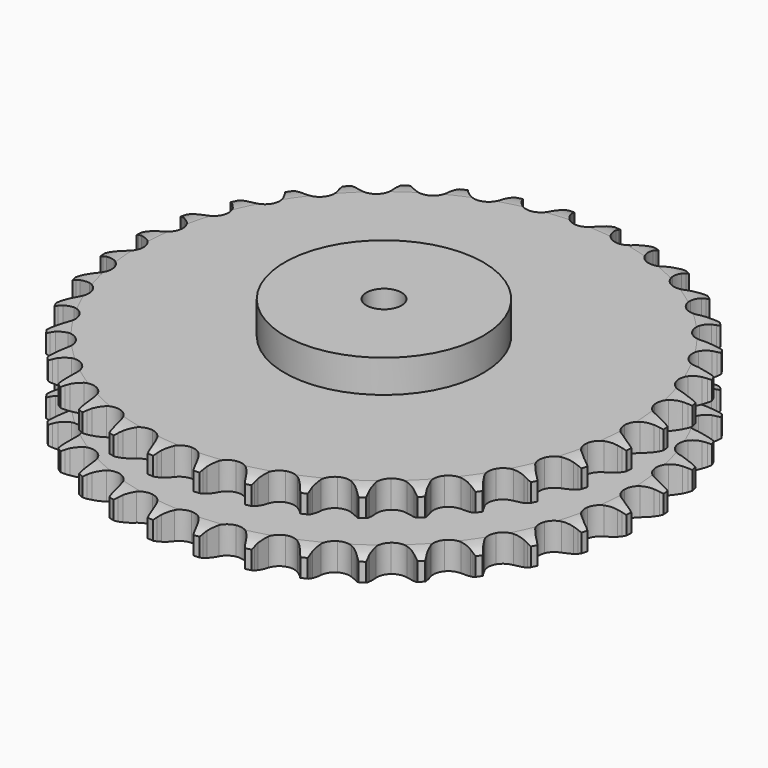
from build123d import *

# Parameters (mm, degrees)
PAD_DEPTH         = 72
SKETCH001_R       = 85
PAD001_DEPTH      = 100
SKETCH002_R       = 15
POCKET_DEPTH      = 0.001
POCKET_DEPTH_BACK = 100.001


with BuildPart() as part:
    # Sprocket → Pad (new body)
    with BuildSketch(Plane.XY):
        with BuildLine():
            ThreePointArc((-20.062815, 229.319028), (-17.721854, 226.163969), (-16.019821, 222.623125))
            Line((-16.019821, 222.623125), (-14.780809, 219.259616))
            ThreePointArc((-14.780809, 219.259616), (-12.823996, 214.932469), (-10.26846, 210.929652))
            ThreePointArc((-10.26846, 210.929652), (-5.745348, 207.13431), (0, 205.772637))
            ThreePointArc((0, 205.772637), (5.745348, 207.13431), (10.26846, 210.929652))
            ThreePointArc((10.26846, 210.929652), (12.823996, 214.932469), (14.780809, 219.259616))
            Line((14.780809, 219.259616), (16.019821, 222.623125))
            ThreePointArc((16.019821, 222.623125), (17.721854, 226.163969), (20.062815, 229.319028))
            ThreePointArc((20.062815, 229.319028), (21.820342, 225.805398), (22.881656, 222.022792))
            Line((22.881656, 222.022792), (23.517777, 218.49523))
            ThreePointArc((23.517777, 218.49523), (24.693461, 213.894026), (26.51509, 209.508256))
            ThreePointArc((26.51509, 209.508256), (30.310433, 204.985143), (35.732043, 202.646489))
            ThreePointArc((35.732043, 202.646489), (41.626558, 202.989805), (46.740009, 205.942057))
            Line((46.740009, 205.942057), (52.630288, 213.361909))
            ThreePointArc((52.630288, 213.361909), (53.490487, 214.934963), (54.434544, 216.459167))
            ThreePointArc((54.434544, 216.459167), (56.72558, 219.650663), (59.578847, 222.351285))
            ThreePointArc((59.578847, 222.351285), (60.699538, 218.585844), (61.087886, 214.676409))
            Line((61.087886, 214.676409), (61.101788, 211.091977))
            ThreePointArc((61.101788, 211.091977), (61.460619, 206.356521), (62.492993, 201.721058))
            ThreePointArc((62.492993, 201.721058), (65.445246, 196.607607), (70.378387, 193.363029))
            ThreePointArc((70.378387, 193.363029), (76.242967, 192.677558), (81.791386, 194.697017))
            Line((81.791386, 194.697017), (88.880622, 200.981309))
            ThreePointArc((88.880622, 200.981309), (90.00091, 202.381092), (91.1953, 203.718206))
            ThreePointArc((91.1953, 203.718206), (94.005728, 206.463382), (97.284606, 208.627511))
            ThreePointArc((97.284606, 208.627511), (97.734409, 204.72467), (97.437991, 200.807192))
            Line((97.437991, 200.807192), (96.829252, 197.274802))
            ThreePointArc((96.829252, 197.274802), (96.360328, 192.548977), (96.572079, 187.804667))
            ThreePointArc((96.572079, 187.804667), (98.591538, 182.256248), (102.886319, 178.204331))
            ThreePointArc((102.886319, 178.204331), (108.542772, 176.5109), (114.357573, 177.536207))
            Line((114.357573, 177.536207), (122.430364, 182.493993))
            ThreePointArc((122.430364, 182.493993), (123.776702, 183.677975), (125.185134, 184.787371))
            ThreePointArc((125.185134, 184.787371), (128.42956, 187.002816), (132.034422, 188.564696))
            ThreePointArc((132.034422, 188.564696), (131.799669, 184.64304), (130.827492, 180.83655))
            Line((130.827492, 180.83655), (129.614608, 177.463531))
            ThreePointArc((129.614608, 177.463531), (128.332177, 172.89093), (127.71687, 168.181927))
            ThreePointArc((127.71687, 168.181927), (128.742176, 162.367125), (132.268102, 157.630985))
            ThreePointArc((132.268102, 157.630985), (137.544559, 154.981049), (143.449064, 154.981049))
            Line((143.449064, 154.981049), (152.260121, 158.461689))
            ThreePointArc((152.260121, 158.461689), (153.791602, 159.393895), (155.371281, 160.241865))
            ThreePointArc((155.371281, 160.241865), (158.951125, 161.860264), (162.772438, 162.772438))
            ThreePointArc((162.772438, 162.772438), (161.860264, 158.951125), (160.241865, 155.371281))
            Line((160.241865, 155.371281), (158.461689, 152.260121))
            ThreePointArc((158.461689, 152.260121), (156.404718, 147.979679), (154.981049, 143.449064))
            ThreePointArc((154.981049, 143.449064), (154.981049, 137.544559), (157.630985, 132.268102))
            ThreePointArc((157.630985, 132.268102), (162.367125, 128.742176), (168.181927, 127.71687))
            Line((168.181927, 127.71687), (177.463531, 129.614608))
            ThreePointArc((177.463531, 129.614608), (179.133621, 130.266712), (180.83655, 130.827492))
            ThreePointArc((180.83655, 130.827492), (184.64304, 131.799669), (188.564696, 132.034422))
            ThreePointArc((188.564696, 132.034422), (187.002816, 128.42956), (184.787371, 125.185134))
            Line((184.787371, 125.185134), (182.493993, 122.430364))
            ThreePointArc((182.493993, 122.430364), (179.724981, 118.572141), (177.536207, 114.357573))
            ThreePointArc((177.536207, 114.357573), (176.5109, 108.542772), (178.204331, 102.886319))
            ThreePointArc((178.204331, 102.886319), (182.256248, 98.591538), (187.804667, 96.572079))
            Line((187.804667, 96.572079), (197.274802, 96.829252))
            ThreePointArc((197.274802, 96.829252), (199.032756, 97.181441), (200.807192, 97.437991))
            ThreePointArc((200.807192, 97.437991), (204.72467, 97.734409), (208.627511, 97.284606))
            ThreePointArc((208.627511, 97.284606), (206.463382, 94.005728), (203.718206, 91.1953))
            Line((203.718206, 91.1953), (200.981309, 88.880622))
            ThreePointArc((200.981309, 88.880622), (197.584391, 85.561849), (194.697017, 81.791386))
            ThreePointArc((194.697017, 81.791386), (192.677558, 76.242967), (193.363029, 70.378387))
            ThreePointArc((193.363029, 70.378387), (196.607607, 65.445246), (201.721058, 62.492993))
            Line((201.721058, 62.492993), (211.091977, 61.101788))
            ThreePointArc((211.091977, 61.101788), (212.884381, 61.143361), (214.676409, 61.087886))
            ThreePointArc((214.676409, 61.087886), (218.585844, 60.699538), (222.351285, 59.578847))
            ThreePointArc((222.351285, 59.578847), (219.650663, 56.72558), (216.459167, 54.434544))
            Line((216.459167, 54.434544), (213.361909, 52.630288))
            ThreePointArc((213.361909, 52.630288), (209.440299, 49.951802), (205.942057, 46.740009))
            ThreePointArc((205.942057, 46.740009), (202.989805, 41.626558), (202.646489, 35.732043))
            ThreePointArc((202.646489, 35.732043), (204.985143, 30.310433), (209.508256, 26.51509))
            Line((209.508256, 26.51509), (218.49523, 23.517777))
            ThreePointArc((218.49523, 23.517777), (220.267623, 23.247471), (222.022792, 22.881656))
            ThreePointArc((222.022792, 22.881656), (225.805398, 21.820342), (229.319028, 20.062815))
            ThreePointArc((229.319028, 20.062815), (226.163969, 17.721854), (222.623125, 16.019821))
            Line((222.623125, 16.019821), (219.259616, 14.780809))
            ThreePointArc((219.259616, 14.780809), (214.932469, 12.823996), (210.929652, 10.26846))
            ThreePointArc((210.929652, 10.26846), (207.13431, 5.745348), (205.772637, 0))
            ThreePointArc((205.772637, 0), (207.13431, -5.745348), (210.929652, -10.26846))
            Line((210.929652, -10.26846), (219.259616, -14.780809))
            ThreePointArc((219.259616, -14.780809), (220.958143, -15.354781), (222.623125, -16.019821))
            ThreePointArc((222.623125, -16.019821), (226.163969, -17.721854), (229.319028, -20.062815))
            ThreePointArc((229.319028, -20.062815), (225.805398, -21.820342), (222.022792, -22.881656))
            Line((222.022792, -22.881656), (218.49523, -23.517777))
            ThreePointArc((218.49523, -23.517777), (213.894026, -24.693461), (209.508256, -26.51509))
            ThreePointArc((209.508256, -26.51509), (204.985143, -30.310433), (202.646489, -35.732043))
            ThreePointArc((202.646489, -35.732043), (202.989805, -41.626558), (205.942057, -46.740009))
            Line((205.942057, -46.740009), (213.361909, -52.630288))
            ThreePointArc((213.361909, -52.630288), (214.934963, -53.490487), (216.459167, -54.434544))
            ThreePointArc((216.459167, -54.434544), (219.650663, -56.72558), (222.351285, -59.578847))
            ThreePointArc((222.351285, -59.578847), (218.585844, -60.699538), (214.676409, -61.087886))
            Line((214.676409, -61.087886), (211.091977, -61.101788))
            ThreePointArc((211.091977, -61.101788), (206.356521, -61.460619), (201.721058, -62.492993))
            ThreePointArc((201.721058, -62.492993), (196.607607, -65.445246), (193.363029, -70.378387))
            ThreePointArc((193.363029, -70.378387), (192.677558, -76.242967), (194.697017, -81.791386))
            Line((194.697017, -81.791386), (200.981309, -88.880622))
            ThreePointArc((200.981309, -88.880622), (202.381092, -90.00091), (203.718206, -91.1953))
            ThreePointArc((203.718206, -91.1953), (206.463382, -94.005728), (208.627511, -97.284606))
            ThreePointArc((208.627511, -97.284606), (204.72467, -97.734409), (200.807192, -97.437991))
            Line((200.807192, -97.437991), (197.274802, -96.829252))
            ThreePointArc((197.274802, -96.829252), (192.548977, -96.360328), (187.804667, -96.572079))
            ThreePointArc((187.804667, -96.572079), (182.256248, -98.591538), (178.204331, -102.886319))
            ThreePointArc((178.204331, -102.886319), (176.5109, -108.542772), (177.536207, -114.357573))
            Line((177.536207, -114.357573), (182.493993, -122.430364))
            ThreePointArc((182.493993, -122.430364), (183.677975, -123.776702), (184.787371, -125.185134))
            ThreePointArc((184.787371, -125.185134), (187.002816, -128.42956), (188.564696, -132.034422))
            ThreePointArc((188.564696, -132.034422), (184.64304, -131.799669), (180.83655, -130.827492))
            Line((180.83655, -130.827492), (177.463531, -129.614608))
            ThreePointArc((177.463531, -129.614608), (172.89093, -128.332177), (168.181927, -127.71687))
            ThreePointArc((168.181927, -127.71687), (162.367125, -128.742176), (157.630985, -132.268102))
            ThreePointArc((157.630985, -132.268102), (154.981049, -137.544559), (154.981049, -143.449064))
            Line((154.981049, -143.449064), (158.461689, -152.260121))
            ThreePointArc((158.461689, -152.260121), (159.393895, -153.791602), (160.241865, -155.371281))
            ThreePointArc((160.241865, -155.371281), (161.860264, -158.951125), (162.772438, -162.772438))
            ThreePointArc((162.772438, -162.772438), (158.951125, -161.860264), (155.371281, -160.241865))
            Line((155.371281, -160.241865), (152.260121, -158.461689))
            ThreePointArc((152.260121, -158.461689), (147.979679, -156.404718), (143.449064, -154.981049))
            ThreePointArc((143.449064, -154.981049), (137.544559, -154.981049), (132.268102, -157.630985))
            ThreePointArc((132.268102, -157.630985), (128.742176, -162.367125), (127.71687, -168.181927))
            Line((127.71687, -168.181927), (129.614608, -177.463531))
            ThreePointArc((129.614608, -177.463531), (130.266712, -179.133621), (130.827492, -180.83655))
            ThreePointArc((130.827492, -180.83655), (131.799669, -184.64304), (132.034422, -188.564696))
            ThreePointArc((132.034422, -188.564696), (128.42956, -187.002816), (125.185134, -184.787371))
            Line((125.185134, -184.787371), (122.430364, -182.493993))
            ThreePointArc((122.430364, -182.493993), (118.572141, -179.724981), (114.357573, -177.536207))
            ThreePointArc((114.357573, -177.536207), (108.542772, -176.5109), (102.886319, -178.204331))
            ThreePointArc((102.886319, -178.204331), (98.591538, -182.256248), (96.572079, -187.804667))
            Line((96.572079, -187.804667), (96.829252, -197.274802))
            ThreePointArc((96.829252, -197.274802), (97.181441, -199.032756), (97.437991, -200.807192))
            ThreePointArc((97.437991, -200.807192), (97.734409, -204.72467), (97.284606, -208.627511))
            ThreePointArc((97.284606, -208.627511), (94.005728, -206.463382), (91.1953, -203.718206))
            Line((91.1953, -203.718206), (88.880622, -200.981309))
            ThreePointArc((88.880622, -200.981309), (85.561849, -197.584391), (81.791386, -194.697017))
            ThreePointArc((81.791386, -194.697017), (76.242967, -192.677558), (70.378387, -193.363029))
            ThreePointArc((70.378387, -193.363029), (65.445246, -196.607607), (62.492993, -201.721058))
            Line((62.492993, -201.721058), (61.101788, -211.091977))
            ThreePointArc((61.101788, -211.091977), (61.143361, -212.884381), (61.087886, -214.676409))
            ThreePointArc((61.087886, -214.676409), (60.699538, -218.585844), (59.578847, -222.351285))
            ThreePointArc((59.578847, -222.351285), (56.72558, -219.650663), (54.434544, -216.459167))
            Line((54.434544, -216.459167), (52.630288, -213.361909))
            ThreePointArc((52.630288, -213.361909), (49.951802, -209.440299), (46.740009, -205.942057))
            ThreePointArc((46.740009, -205.942057), (41.626558, -202.989805), (35.732043, -202.646489))
            ThreePointArc((35.732043, -202.646489), (30.310433, -204.985143), (26.51509, -209.508256))
            Line((26.51509, -209.508256), (23.517777, -218.49523))
            ThreePointArc((23.517777, -218.49523), (23.247471, -220.267623), (22.881656, -222.022792))
            ThreePointArc((22.881656, -222.022792), (21.820342, -225.805398), (20.062815, -229.319028))
            ThreePointArc((20.062815, -229.319028), (17.721854, -226.163969), (16.019821, -222.623125))
            Line((16.019821, -222.623125), (14.780809, -219.259616))
            ThreePointArc((14.780809, -219.259616), (12.823996, -214.932469), (10.26846, -210.929652))
            ThreePointArc((10.26846, -210.929652), (5.745348, -207.13431), (0, -205.772637))
            ThreePointArc((0, -205.772637), (-5.745348, -207.13431), (-10.26846, -210.929652))
            Line((-10.26846, -210.929652), (-14.780809, -219.259616))
            ThreePointArc((-14.780809, -219.259616), (-15.354781, -220.958143), (-16.019821, -222.623125))
            ThreePointArc((-16.019821, -222.623125), (-17.721854, -226.163969), (-20.062815, -229.319028))
            ThreePointArc((-20.062815, -229.319028), (-21.820342, -225.805398), (-22.881656, -222.022792))
            Line((-22.881656, -222.022792), (-23.517777, -218.49523))
            ThreePointArc((-23.517777, -218.49523), (-24.693461, -213.894026), (-26.51509, -209.508256))
            ThreePointArc((-26.51509, -209.508256), (-30.310433, -204.985143), (-35.732043, -202.646489))
            ThreePointArc((-35.732043, -202.646489), (-41.626558, -202.989805), (-46.740009, -205.942057))
            Line((-46.740009, -205.942057), (-52.630288, -213.361909))
            ThreePointArc((-52.630288, -213.361909), (-53.490487, -214.934963), (-54.434544, -216.459167))
            ThreePointArc((-54.434544, -216.459167), (-56.72558, -219.650663), (-59.578847, -222.351285))
            ThreePointArc((-59.578847, -222.351285), (-60.699538, -218.585844), (-61.087886, -214.676409))
            Line((-61.087886, -214.676409), (-61.101788, -211.091977))
            ThreePointArc((-61.101788, -211.091977), (-61.460619, -206.356521), (-62.492993, -201.721058))
            ThreePointArc((-62.492993, -201.721058), (-65.445246, -196.607607), (-70.378387, -193.363029))
            ThreePointArc((-70.378387, -193.363029), (-76.242967, -192.677558), (-81.791386, -194.697017))
            Line((-81.791386, -194.697017), (-88.880622, -200.981309))
            ThreePointArc((-88.880622, -200.981309), (-90.00091, -202.381092), (-91.1953, -203.718206))
            ThreePointArc((-91.1953, -203.718206), (-94.005728, -206.463382), (-97.284606, -208.627511))
            ThreePointArc((-97.284606, -208.627511), (-97.734409, -204.72467), (-97.437991, -200.807192))
            Line((-97.437991, -200.807192), (-96.829252, -197.274802))
            ThreePointArc((-96.829252, -197.274802), (-96.360328, -192.548977), (-96.572079, -187.804667))
            ThreePointArc((-96.572079, -187.804667), (-98.591538, -182.256248), (-102.886319, -178.204331))
            ThreePointArc((-102.886319, -178.204331), (-108.542772, -176.5109), (-114.357573, -177.536207))
            Line((-114.357573, -177.536207), (-122.430364, -182.493993))
            ThreePointArc((-122.430364, -182.493993), (-123.776702, -183.677975), (-125.185134, -184.787371))
            ThreePointArc((-125.185134, -184.787371), (-128.42956, -187.002816), (-132.034422, -188.564696))
            ThreePointArc((-132.034422, -188.564696), (-131.799669, -184.64304), (-130.827492, -180.83655))
            Line((-130.827492, -180.83655), (-129.614608, -177.463531))
            ThreePointArc((-129.614608, -177.463531), (-128.332177, -172.89093), (-127.71687, -168.181927))
            ThreePointArc((-127.71687, -168.181927), (-128.742176, -162.367125), (-132.268102, -157.630985))
            ThreePointArc((-132.268102, -157.630985), (-137.544559, -154.981049), (-143.449064, -154.981049))
            Line((-143.449064, -154.981049), (-152.260121, -158.461689))
            ThreePointArc((-152.260121, -158.461689), (-153.791602, -159.393895), (-155.371281, -160.241865))
            ThreePointArc((-155.371281, -160.241865), (-158.951125, -161.860264), (-162.772438, -162.772438))
            ThreePointArc((-162.772438, -162.772438), (-161.860264, -158.951125), (-160.241865, -155.371281))
            Line((-160.241865, -155.371281), (-158.461689, -152.260121))
            ThreePointArc((-158.461689, -152.260121), (-156.404718, -147.979679), (-154.981049, -143.449064))
            ThreePointArc((-154.981049, -143.449064), (-154.981049, -137.544559), (-157.630985, -132.268102))
            ThreePointArc((-157.630985, -132.268102), (-162.367125, -128.742176), (-168.181927, -127.71687))
            Line((-168.181927, -127.71687), (-177.463531, -129.614608))
            ThreePointArc((-177.463531, -129.614608), (-179.133621, -130.266712), (-180.83655, -130.827492))
            ThreePointArc((-180.83655, -130.827492), (-184.64304, -131.799669), (-188.564696, -132.034422))
            ThreePointArc((-188.564696, -132.034422), (-187.002816, -128.42956), (-184.787371, -125.185134))
            Line((-184.787371, -125.185134), (-182.493993, -122.430364))
            ThreePointArc((-182.493993, -122.430364), (-179.724981, -118.572141), (-177.536207, -114.357573))
            ThreePointArc((-177.536207, -114.357573), (-176.5109, -108.542772), (-178.204331, -102.886319))
            ThreePointArc((-178.204331, -102.886319), (-182.256248, -98.591538), (-187.804667, -96.572079))
            Line((-187.804667, -96.572079), (-197.274802, -96.829252))
            ThreePointArc((-197.274802, -96.829252), (-199.032756, -97.181441), (-200.807192, -97.437991))
            ThreePointArc((-200.807192, -97.437991), (-204.72467, -97.734409), (-208.627511, -97.284606))
            ThreePointArc((-208.627511, -97.284606), (-206.463382, -94.005728), (-203.718206, -91.1953))
            Line((-203.718206, -91.1953), (-200.981309, -88.880622))
            ThreePointArc((-200.981309, -88.880622), (-197.584391, -85.561849), (-194.697017, -81.791386))
            ThreePointArc((-194.697017, -81.791386), (-192.677558, -76.242967), (-193.363029, -70.378387))
            ThreePointArc((-193.363029, -70.378387), (-196.607607, -65.445246), (-201.721058, -62.492993))
            Line((-201.721058, -62.492993), (-211.091977, -61.101788))
            ThreePointArc((-211.091977, -61.101788), (-212.884381, -61.143361), (-214.676409, -61.087886))
            ThreePointArc((-214.676409, -61.087886), (-218.585844, -60.699538), (-222.351285, -59.578847))
            ThreePointArc((-222.351285, -59.578847), (-219.650663, -56.72558), (-216.459167, -54.434544))
            Line((-216.459167, -54.434544), (-213.361909, -52.630288))
            ThreePointArc((-213.361909, -52.630288), (-209.440299, -49.951802), (-205.942057, -46.740009))
            ThreePointArc((-205.942057, -46.740009), (-202.989805, -41.626558), (-202.646489, -35.732043))
            ThreePointArc((-202.646489, -35.732043), (-204.985143, -30.310433), (-209.508256, -26.51509))
            Line((-209.508256, -26.51509), (-218.49523, -23.517777))
            ThreePointArc((-218.49523, -23.517777), (-220.267623, -23.247471), (-222.022792, -22.881656))
            ThreePointArc((-222.022792, -22.881656), (-225.805398, -21.820342), (-229.319028, -20.062815))
            ThreePointArc((-229.319028, -20.062815), (-226.163969, -17.721854), (-222.623125, -16.019821))
            Line((-222.623125, -16.019821), (-219.259616, -14.780809))
            ThreePointArc((-219.259616, -14.780809), (-214.932469, -12.823996), (-210.929652, -10.26846))
            ThreePointArc((-210.929652, -10.26846), (-207.13431, -5.745348), (-205.772637, 0))
            ThreePointArc((-205.772637, 0), (-207.13431, 5.745348), (-210.929652, 10.26846))
            Line((-210.929652, 10.26846), (-219.259616, 14.780809))
            ThreePointArc((-219.259616, 14.780809), (-220.958143, 15.354781), (-222.623125, 16.019821))
            ThreePointArc((-222.623125, 16.019821), (-226.163969, 17.721854), (-229.319028, 20.062815))
            ThreePointArc((-229.319028, 20.062815), (-225.805398, 21.820342), (-222.022792, 22.881656))
            Line((-222.022792, 22.881656), (-218.49523, 23.517777))
            ThreePointArc((-218.49523, 23.517777), (-213.894026, 24.693461), (-209.508256, 26.51509))
            ThreePointArc((-209.508256, 26.51509), (-204.985143, 30.310433), (-202.646489, 35.732043))
            ThreePointArc((-202.646489, 35.732043), (-202.989805, 41.626558), (-205.942057, 46.740009))
            Line((-205.942057, 46.740009), (-213.361909, 52.630288))
            ThreePointArc((-213.361909, 52.630288), (-214.934963, 53.490487), (-216.459167, 54.434544))
            ThreePointArc((-216.459167, 54.434544), (-219.650663, 56.72558), (-222.351285, 59.578847))
            ThreePointArc((-222.351285, 59.578847), (-218.585844, 60.699538), (-214.676409, 61.087886))
            Line((-214.676409, 61.087886), (-211.091977, 61.101788))
            ThreePointArc((-211.091977, 61.101788), (-206.356521, 61.460619), (-201.721058, 62.492993))
            ThreePointArc((-201.721058, 62.492993), (-196.607607, 65.445246), (-193.363029, 70.378387))
            ThreePointArc((-193.363029, 70.378387), (-192.677558, 76.242967), (-194.697017, 81.791386))
            Line((-194.697017, 81.791386), (-200.981309, 88.880622))
            ThreePointArc((-200.981309, 88.880622), (-202.381092, 90.00091), (-203.718206, 91.1953))
            ThreePointArc((-203.718206, 91.1953), (-206.463382, 94.005728), (-208.627511, 97.284606))
            ThreePointArc((-208.627511, 97.284606), (-204.72467, 97.734409), (-200.807192, 97.437991))
            Line((-200.807192, 97.437991), (-197.274802, 96.829252))
            ThreePointArc((-197.274802, 96.829252), (-192.548977, 96.360328), (-187.804667, 96.572079))
            ThreePointArc((-187.804667, 96.572079), (-182.256248, 98.591538), (-178.204331, 102.886319))
            ThreePointArc((-178.204331, 102.886319), (-176.5109, 108.542772), (-177.536207, 114.357573))
            Line((-177.536207, 114.357573), (-182.493993, 122.430364))
            ThreePointArc((-182.493993, 122.430364), (-183.677975, 123.776702), (-184.787371, 125.185134))
            ThreePointArc((-184.787371, 125.185134), (-187.002816, 128.42956), (-188.564696, 132.034422))
            ThreePointArc((-188.564696, 132.034422), (-184.64304, 131.799669), (-180.83655, 130.827492))
            Line((-180.83655, 130.827492), (-177.463531, 129.614608))
            ThreePointArc((-177.463531, 129.614608), (-172.89093, 128.332177), (-168.181927, 127.71687))
            ThreePointArc((-168.181927, 127.71687), (-162.367125, 128.742176), (-157.630985, 132.268102))
            ThreePointArc((-157.630985, 132.268102), (-154.981049, 137.544559), (-154.981049, 143.449064))
            Line((-154.981049, 143.449064), (-158.461689, 152.260121))
            ThreePointArc((-158.461689, 152.260121), (-159.393895, 153.791602), (-160.241865, 155.371281))
            ThreePointArc((-160.241865, 155.371281), (-161.860264, 158.951125), (-162.772438, 162.772438))
            ThreePointArc((-162.772438, 162.772438), (-158.951125, 161.860264), (-155.371281, 160.241865))
            Line((-155.371281, 160.241865), (-152.260121, 158.461689))
            ThreePointArc((-152.260121, 158.461689), (-147.979679, 156.404718), (-143.449064, 154.981049))
            ThreePointArc((-143.449064, 154.981049), (-137.544559, 154.981049), (-132.268102, 157.630985))
            ThreePointArc((-132.268102, 157.630985), (-128.742176, 162.367125), (-127.71687, 168.181927))
            Line((-127.71687, 168.181927), (-129.614608, 177.463531))
            ThreePointArc((-129.614608, 177.463531), (-130.266712, 179.133621), (-130.827492, 180.83655))
            ThreePointArc((-130.827492, 180.83655), (-131.799669, 184.64304), (-132.034422, 188.564696))
            ThreePointArc((-132.034422, 188.564696), (-128.42956, 187.002816), (-125.185134, 184.787371))
            Line((-125.185134, 184.787371), (-122.430364, 182.493993))
            ThreePointArc((-122.430364, 182.493993), (-118.572141, 179.724981), (-114.357573, 177.536207))
            ThreePointArc((-114.357573, 177.536207), (-108.542772, 176.5109), (-102.886319, 178.204331))
            ThreePointArc((-102.886319, 178.204331), (-98.591538, 182.256248), (-96.572079, 187.804667))
            Line((-96.572079, 187.804667), (-96.829252, 197.274802))
            ThreePointArc((-96.829252, 197.274802), (-97.181441, 199.032756), (-97.437991, 200.807192))
            ThreePointArc((-97.437991, 200.807192), (-97.734409, 204.72467), (-97.284606, 208.627511))
            ThreePointArc((-97.284606, 208.627511), (-94.005728, 206.463382), (-91.1953, 203.718206))
            Line((-91.1953, 203.718206), (-88.880622, 200.981309))
            ThreePointArc((-88.880622, 200.981309), (-85.561849, 197.584391), (-81.791386, 194.697017))
            ThreePointArc((-81.791386, 194.697017), (-76.242967, 192.677558), (-70.378387, 193.363029))
            ThreePointArc((-70.378387, 193.363029), (-65.445246, 196.607607), (-62.492993, 201.721058))
            Line((-62.492993, 201.721058), (-61.101788, 211.091977))
            ThreePointArc((-61.101788, 211.091977), (-61.143361, 212.884381), (-61.087886, 214.676409))
            ThreePointArc((-61.087886, 214.676409), (-60.699538, 218.585844), (-59.578847, 222.351285))
            ThreePointArc((-59.578847, 222.351285), (-56.72558, 219.650663), (-54.434544, 216.459167))
            Line((-54.434544, 216.459167), (-52.630288, 213.361909))
            ThreePointArc((-52.630288, 213.361909), (-49.951802, 209.440299), (-46.740009, 205.942057))
            ThreePointArc((-46.740009, 205.942057), (-41.626558, 202.989805), (-35.732043, 202.646489))
            ThreePointArc((-35.732043, 202.646489), (-30.310433, 204.985143), (-26.51509, 209.508256))
            Line((-26.51509, 209.508256), (-23.517777, 218.49523))
            ThreePointArc((-23.517777, 218.49523), (-23.247471, 220.267623), (-22.881656, 222.022792))
            ThreePointArc((-22.881656, 222.022792), (-21.820342, 225.805398), (-20.062815, 229.319028))
        make_face()
    extrude(amount=PAD_DEPTH)

    # Sketch → Groove (revolve, cut)
    with BuildSketch(Plane.XZ):
        with BuildLine():
            ThreePointArc((209.029437, 0), (217.747235, 1.013516), (226, 4))
            Line((226, 4), (226, 19.6))
            ThreePointArc((226, 19.6), (217.747235, 22.586484), (209.029437, 23.6))
            Line((85, 23.6), (209.029437, 23.6))
            Line((85, 48.4), (85, 23.6))
            Line((209.029437, 48.4), (85, 48.4))
            ThreePointArc((209.029437, 48.4), (217.747235, 49.413516), (226, 52.4))
            Line((226, 52.4), (226, 68))
            ThreePointArc((226, 68), (217.747235, 70.986484), (209.029437, 72))
            Line((209.029437, 72), (236, 72))
            Line((236, 72), (236, 0))
            Line((209.029437, 0), (236, 0))
        make_face()
    revolve(axis=Axis((0, 0, 0), (0, 0, 1)), mode=Mode.SUBTRACT)

    # Sketch001 → Pad001 (join)
    with BuildSketch(Plane.XY):
        Circle(SKETCH001_R)
    extrude(amount=PAD001_DEPTH)

    # Sketch002 → Pocket (cut, two sides)
    with BuildSketch(Plane.XY) as pocket_sk:
        Circle(SKETCH002_R)
    extrude(amount=-POCKET_DEPTH, mode=Mode.SUBTRACT)
    extrude(pocket_sk.sketch, amount=POCKET_DEPTH_BACK, mode=Mode.SUBTRACT)


solid = part.part
